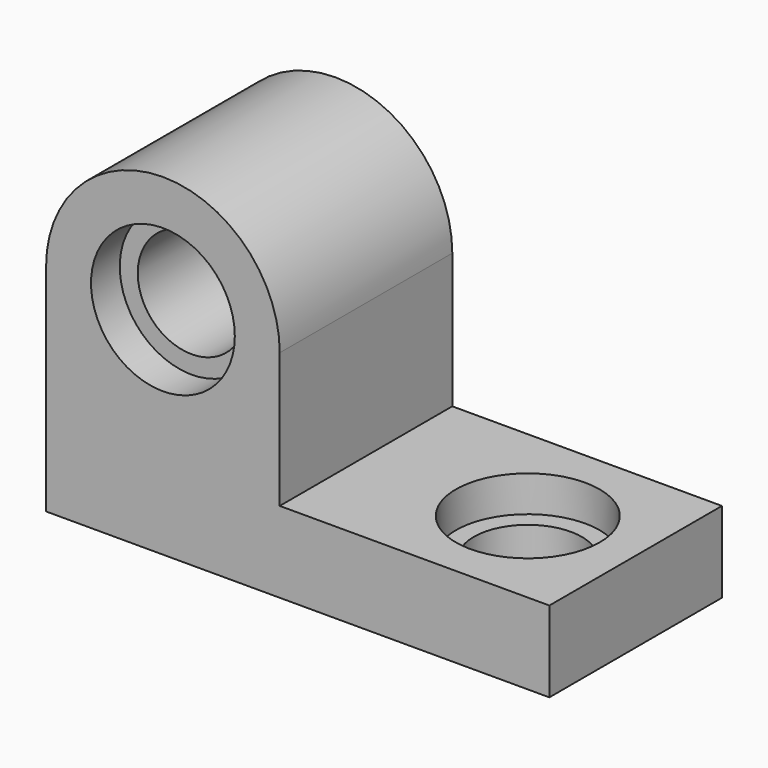
from build123d import *

# Parameters (mm, degrees)
F1_DEPTH       = 76.2
F4_D           = 38.1
F4_CBORE_D     = 50.8
F4_CBORE_DEPTH = 12.7
F5_D           = 38.1
F5_CBORE_D     = 50.8
F5_CBORE_DEPTH = 12.7


with BuildPart() as f1:
    # F0 (on Front) → F1 (new body)
    with BuildSketch(Plane.XZ):
        with BuildLine():
            Line((0, 76.2), (0, 0))
            Line((0, 0), (177.8, 0))
            Line((177.8, 0), (177.8, 28.575))
            Line((177.8, 28.575), (82.55, 28.575))
            Line((82.55, 28.575), (82.55, 76.2))
            ThreePointArc((82.55, 76.2), (41.275, 117.475), (0, 76.2))
        make_face()
    extrude(amount=F1_DEPTH)

    # F4 (through all)
    with Locations(Plane.XZ.offset(76.2)):
        with Locations((41.275, 76.2)):
            CounterBoreHole(F4_D / 2, F4_CBORE_D / 2, F4_CBORE_DEPTH)

    # F5 (through all)
    with Locations(Plane.XY.offset(28.575)):
        with Locations((139.7, -38.1)):
            CounterBoreHole(F5_D / 2, F5_CBORE_D / 2, F5_CBORE_DEPTH)


solid = f1.part
